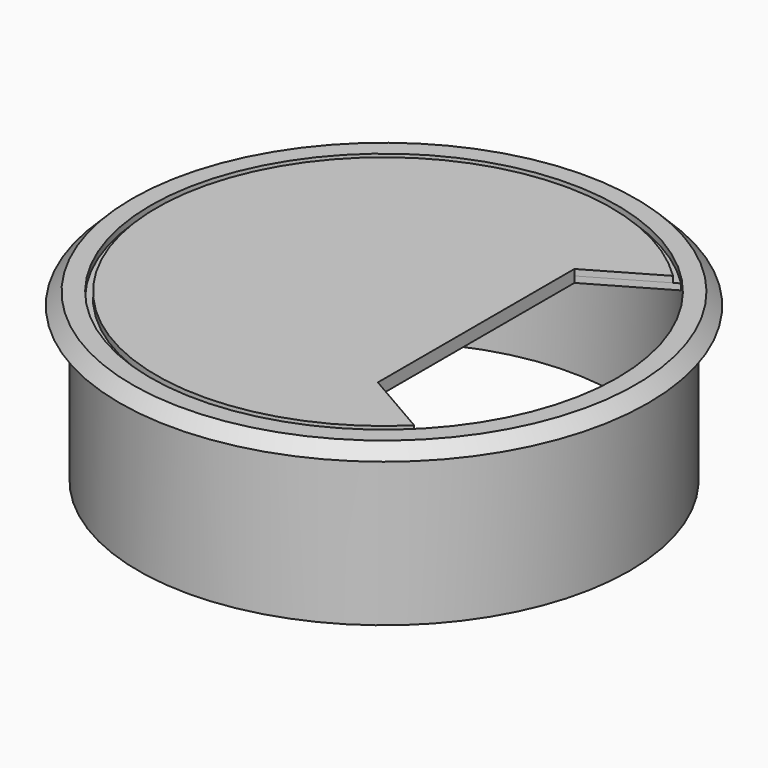
from build123d import *

# Parameters (mm, degrees)
F3_DEPTH = 1
F5_DEPTH = 1


with BuildPart() as f1:
    # F0 (on Front) → F1 (revolve)
    with BuildSketch(Plane.XZ):
        Polygon((-38, -25), (-38, 2), (-41, 2), (-43, 0), (-40, 0), (-40, -25), align=None)
    revolve(axis=Axis((0, 0, -43.882875), (0, 0, -1)))

    # F2 (on Top) → F3 (join)
    with BuildSketch(Plane.XY):
        with BuildLine():
            Line((15, 20), (26.880754, 26.859357))
            ThreePointArc((26.880754, 26.859357), (-38, 0), (26.880754, -26.859357))
            Line((26.880754, -26.859357), (15, -20))
            Line((15, -20), (15, 20))
        make_face()
    extrude(amount=F3_DEPTH)

    # F4 (on face) → F5 (join, through all)
    with BuildSketch(Plane.XY.offset(1)):
        with BuildLine():
            Line((15, 20), (25.983406, 26.341272))
            ThreePointArc((25.983406, 26.341272), (-37, 0), (25.983406, -26.341272))
            Line((25.983406, -26.341272), (15, -20))
            Line((15, -20), (15, 20))
        make_face()
    extrude(amount=F5_DEPTH)


solid = f1.part
